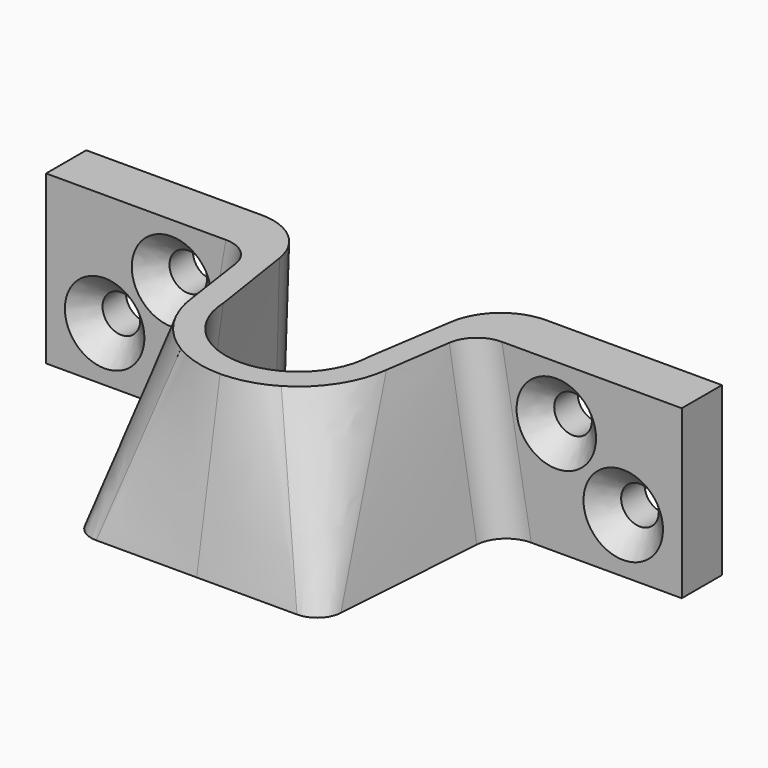
from build123d import *

# Parameters (mm, degrees)
SKETCH002_R  = 2.25
POCKET_DEPTH = 31.001
CHAMFER_SIZE = 2.5


with BuildPart() as chamfer_body:
    # Sketch → Loft section 0
    with BuildSketch(Plane.XY):
        with BuildLine():
            Line((-17, 0), (-38, 0))
            Line((-38, 0), (-38, -6))
            Line((-38, -6), (-20, -6))
            ThreePointArc((-16.27755, -9.477078), (-17.453105, -7.004482), (-20, -6))
            Line((-16.27755, -9.477078), (-15, -28.197751))
            ThreePointArc((-15, -28.197751), (-14.052596, -30.190467), (-12, -31))
            Line((-12, -31), (0, -31))
            Line((0, -31), (0, -27))
            ThreePointArc((-9.789322, -18.64486), (-6.435045, -24.627224), (0, -27))
            Line((-11.683183, -4.645958), (-9.789322, -18.64486))
            ThreePointArc((-11.683183, -4.645958), (-13.469651, -1.325133), (-17, 0))
        make_face()
    # Sketch001 → Loft section 1
    with BuildSketch(Plane.XY.offset(20)):
        with BuildLine():
            Line((-17, 0), (-38, 0))
            Line((-38, 0), (-38, -6))
            Line((-38, -6), (-16.5, -6))
            ThreePointArc((-12.77755, -9.220661), (-14.038837, -6.91692), (-16.5, -6))
            Line((-12.77755, -9.220661), (-11.623745, -17.1614))
            ThreePointArc((-11.623745, -17.1614), (-9.823458, -22.15833), (-6, -25.844998))
            ThreePointArc((-6, -25.844998), (-3.112034, -27.078665), (0, -27.5))
            Line((0, -27.5), (0, -24.5))
            ThreePointArc((-8.696641, -16.14486), (-6.029924, -22.072766), (0, -24.5))
            Line((-10.286118, -5.764115), (-8.696641, -16.14486))
            ThreePointArc((-10.286118, -5.764115), (-12.575601, -1.638712), (-17, 0))
        make_face()
    loft()

    # Sketch002 → Pocket (cut, through all)
    with BuildSketch(Plane(origin=(0, 0, 0), x_dir=(-1, 0, 0), z_dir=(0, 1, 0))):
        with Locations((23, 13.5)):
            Circle(SKETCH002_R)
        with Locations((31, 6.5)):
            Circle(SKETCH002_R)
    extrude(amount=-POCKET_DEPTH, mode=Mode.SUBTRACT)

    # Chamfer
    chamfer_edges = [chamfer_body.edges().sort_by_distance(p)[0] for p in [
        (-21.369261, -6, 15.050223),
        (-24.630739, -6, 11.949777),
        (-28.776606, -6, 6.844988),
        (-33.223394, -6, 6.155012),
    ]]
    chamfer(chamfer_edges, length=CHAMFER_SIZE)


with BuildPart() as part_mirroring:
    # Part__Mirroring: instance of Chamfer body
    add(chamfer_body.part.mirror(Plane(origin=(0, 0, 0), x_dir=(0, -1, 0), z_dir=(1, 0, 0))))


with BuildPart() as fusion:
    # Fusion base: copy of Chamfer body
    add(chamfer_body.part)

    # Fusion: union Part__Mirroring
    add(part_mirroring.part)


solid = fusion.part
